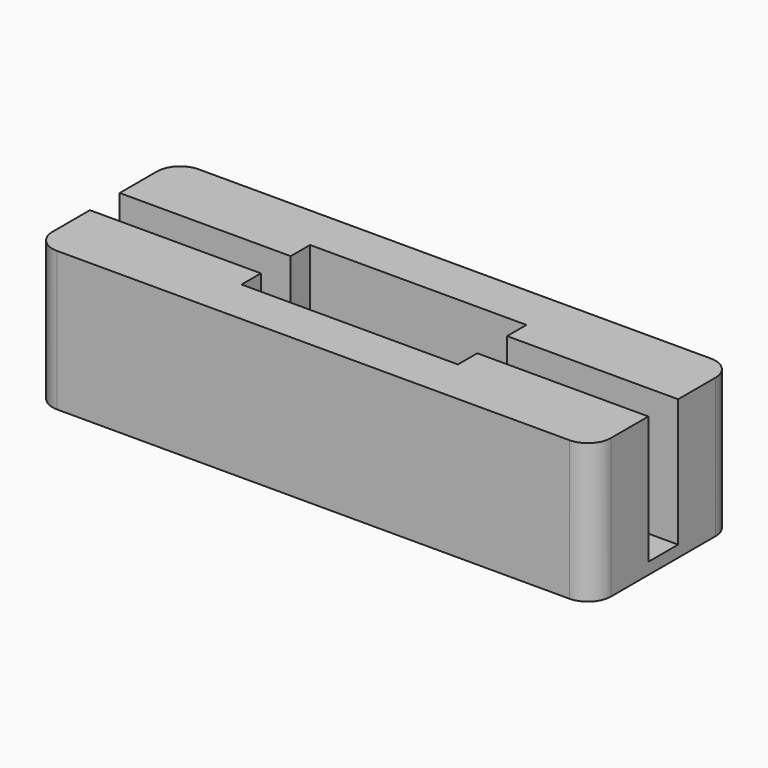
from build123d import *

# Parameters (mm, degrees)
PAD_DEPTH    = 15
POCKET_DEPTH = 13.75


with BuildPart() as part:
    # Sketch → Pad (new body)
    with BuildSketch(Plane.XY):
        with BuildLine():
            Line((-27.52, 9.5), (27.52, 9.5))
            ThreePointArc((30, 7.02), (29.273625, 8.773625), (27.52, 9.5))
            Line((30, 7.02), (30, -7.02))
            ThreePointArc((27.52, -9.5), (29.273625, -8.773625), (30, -7.02))
            Line((27.52, -9.5), (-27.52, -9.5))
            ThreePointArc((-30, -7.02), (-29.273625, -8.773625), (-27.52, -9.5))
            Line((-30, -7.02), (-30, 7.02))
            ThreePointArc((-27.52, 9.5), (-29.273625, 8.773625), (-30, 7.02))
        make_face()
    extrude(amount=PAD_DEPTH)

    # Sketch001 (on Face10 of Pad) → Pocket (cut)
    with BuildSketch(Plane.XY.offset(15)):
        Polygon((-30.255, 2), (-11.625, 2), (-11.625, 4.6), (11.625, 4.6), (11.625, 2), (30.255, 2), (30.255, -2), (11.625, -2), (11.625, -4.6), (-11.625, -4.6), (-11.625, -2), (-30.255, -2), align=None)
    extrude(amount=-POCKET_DEPTH, mode=Mode.SUBTRACT)


solid = part.part
